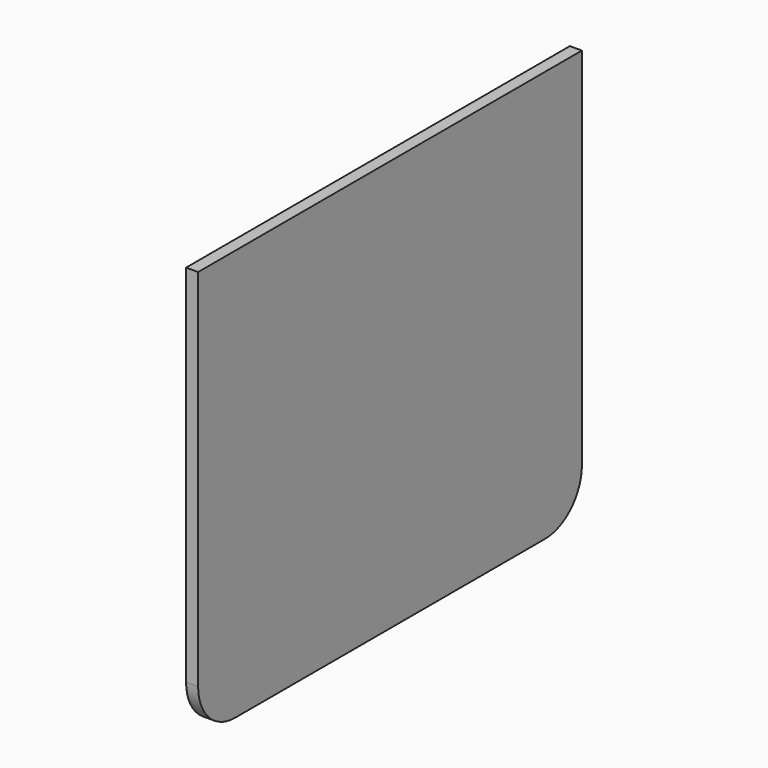
from build123d import *

# Parameters (mm, degrees)
F0_W     = 51.8
F0_H     = 44.4
F1_DEPTH = 1.3
F2_R     = 5


with BuildPart() as f1:
    # F0 (on Right) → F1 (new body)
    with BuildSketch(Plane.YZ):
        with Locations((-25.9, 22.2)):
            Rectangle(F0_W, F0_H)
    extrude(amount=F1_DEPTH)

    # F2
    f2_edges = [f1.edges().sort_by_distance(p)[0] for p in [
        (0.65, -51.8, 0),
        (0.65, 0, 0),
    ]]
    fillet(f2_edges, radius=F2_R)


solid = f1.part
